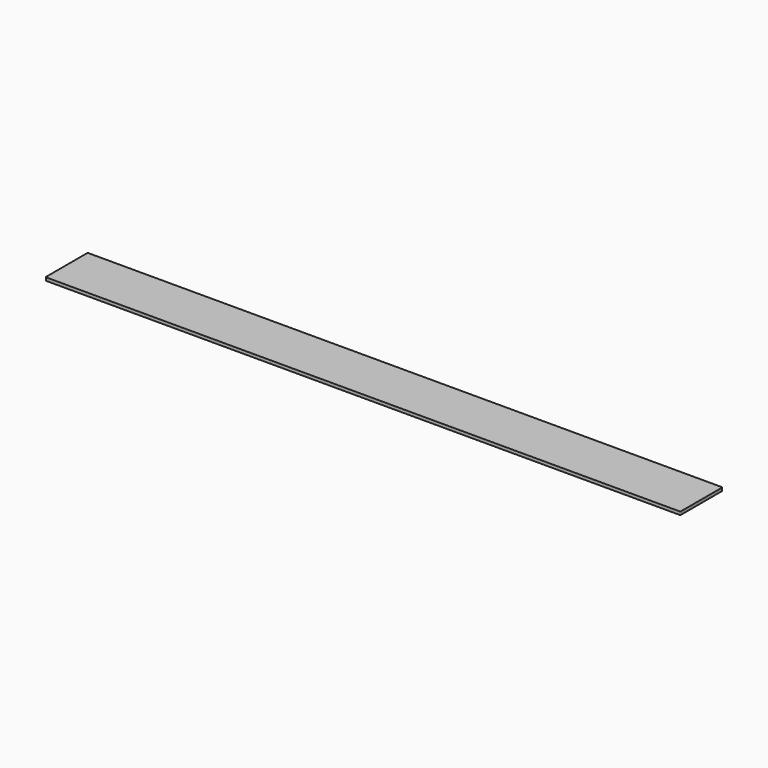
from build123d import *

# Parameters (mm, degrees)
PAD_DEPTH = 3


with BuildPart() as part:
    # Sketch → Pad (new body)
    with BuildSketch(Plane.XY):
        with BuildLine():
            ThreePointArc((-303.8, 25.275), (-304.507107, 24.982107), (-304.8, 24.275))
            Line((-304.8, -24.275), (-304.8, 24.275))
            ThreePointArc((-304.8, -24.275), (-304.507107, -24.982107), (-303.8, -25.275))
            Line((303.8, -25.275), (-303.8, -25.275))
            ThreePointArc((303.8, -25.275), (304.507107, -24.982107), (304.8, -24.275))
            Line((304.8, 24.275), (304.8, -24.275))
            ThreePointArc((304.8, 24.275), (304.507107, 24.982107), (303.8, 25.275))
            Line((-303.8, 25.275), (303.8, 25.275))
        make_face()
    extrude(amount=PAD_DEPTH)


solid = part.part
